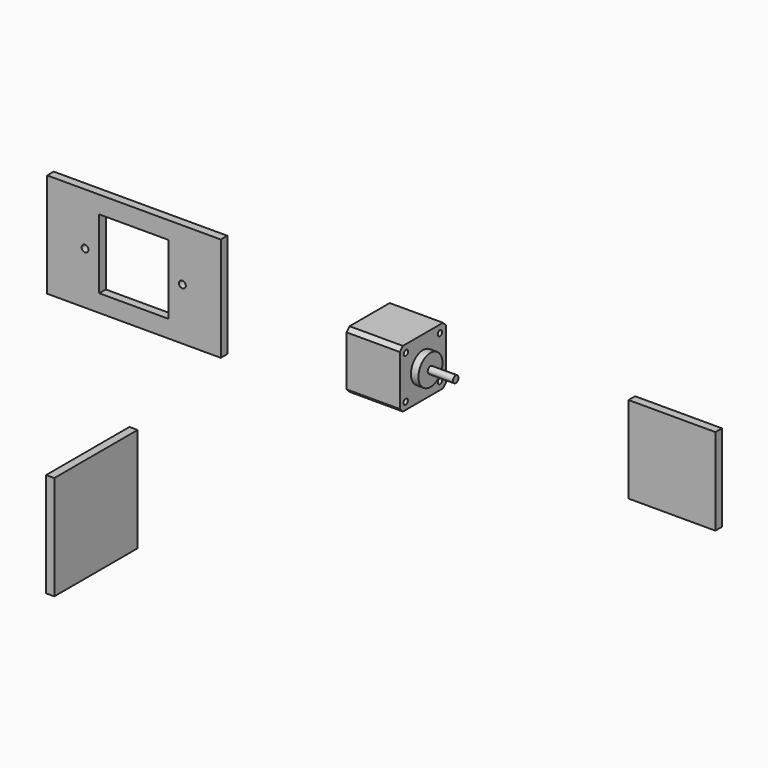
from build123d import *

# Parameters (mm, degrees)
F0_R      = 2
F0_R_2    = 11
F0_R_3    = 2.5
F1_DEPTH  = 39
F0_W      = 5
F0_H      = 10
F2_DEPTH  = 5
F3_DEPTH  = 44.5
F4_DEPTH  = 63
F5_W      = 76.2
F5_H      = 76.2
F6_DEPTH  = 6
F7_W      = 127
F7_H      = 76.2
F7_R      = 2.5
F7_W_2    = 50.8
F7_H_2    = 50.8
F8_DEPTH  = 6
F9_W      = 63.5
F9_H      = 63.5
F10_DEPTH = 6


with BuildPart() as f1:
    # F0 (on Right) → F1 (new body)
    with BuildSketch(Plane.YZ):
        with BuildLine():
            Line((18.35, 21.15), (9.95, 21.15))
            Line((9.95, 21.15), (9.95, 13.76))
            ThreePointArc((9.95, 13.76), (11.065923, 11.065923), (13.76, 9.95))
            Line((13.76, 9.95), (21.15, 9.95))
            Line((21.15, 9.95), (21.15, 18.35))
            Line((21.15, 18.35), (18.35, 21.15))
        make_face()
        with Locations((15.55, 15.55)):
            Circle(F0_R, mode=Mode.SUBTRACT)
        with BuildLine():
            Line((9.95, -13.76), (9.95, -21.15))
            Line((9.95, -21.15), (18.35, -21.15))
            Line((18.35, -21.15), (21.15, -18.35))
            Line((21.15, -18.35), (21.15, -9.95))
            Line((21.15, -9.95), (13.76, -9.95))
            ThreePointArc((13.76, -9.95), (11.065923, -11.065923), (9.95, -13.76))
        make_face()
        with Locations((15.575716, -15.329785)):
            Circle(F0_R, mode=Mode.SUBTRACT)
        with BuildLine():
            Line((-21.15, -18.35), (-18.35, -21.15))
            Line((-18.35, -21.15), (-9.95, -21.15))
            Line((-9.95, -21.15), (-9.95, -13.76))
            ThreePointArc((-9.95, -13.76), (-11.065923, -11.065923), (-13.76, -9.95))
            Line((-13.76, -9.95), (-21.15, -9.95))
            Line((-21.15, -9.95), (-21.15, -18.35))
        make_face()
        with Locations((-15.739674, -15.821651)):
            Circle(F0_R, mode=Mode.SUBTRACT)
        with BuildLine():
            Line((-21.15, 18.35), (-21.15, 9.95))
            Line((-21.15, 9.95), (-13.76, 9.95))
            ThreePointArc((-13.76, 9.95), (-11.065923, 11.065923), (-9.95, 13.76))
            Line((-9.95, 13.76), (-9.95, 21.15))
            Line((-9.95, 21.15), (-18.35, 21.15))
            Line((-18.35, 21.15), (-21.15, 18.35))
        make_face()
        with Locations((-15.55, 15.55)):
            Circle(F0_R, mode=Mode.SUBTRACT)
        with BuildLine():
            Line((-9.95, -13.76), (-9.95, -21.15))
            Line((-9.95, -21.15), (9.95, -21.15))
            Line((9.95, -21.15), (9.95, -13.76))
            ThreePointArc((9.95, -13.76), (11.065923, -11.065923), (13.76, -9.95))
            Line((13.76, -9.95), (21.15, -9.95))
            Line((21.15, -9.95), (21.15, -5))
            Line((21.15, -5), (21.15, 5))
            Line((21.15, 5), (21.15, 9.95))
            Line((21.15, 9.95), (13.76, 9.95))
            ThreePointArc((13.76, 9.95), (11.065923, 11.065923), (9.95, 13.76))
            Line((9.95, 13.76), (9.95, 21.15))
            Line((9.95, 21.15), (-9.95, 21.15))
            Line((-9.95, 21.15), (-9.95, 13.76))
            ThreePointArc((-9.95, 13.76), (-11.065923, 11.065923), (-13.76, 9.95))
            Line((-13.76, 9.95), (-21.15, 9.95))
            Line((-21.15, 9.95), (-21.15, -9.95))
            Line((-21.15, -9.95), (-13.76, -9.95))
            ThreePointArc((-13.76, -9.95), (-11.065923, -11.065923), (-9.95, -13.76))
        make_face()
        Circle(F0_R_2, mode=Mode.SUBTRACT)
        with BuildLine():
            Line((-21.15, 18.35), (-21.15, 9.95))
            Line((-21.15, 9.95), (-13.76, 9.95))
            ThreePointArc((-13.76, 9.95), (-11.065923, 11.065923), (-9.95, 13.76))
            Line((-9.95, 13.76), (-9.95, 21.15))
            Line((-9.95, 21.15), (-18.35, 21.15))
            Line((-18.35, 21.15), (-21.15, 18.35))
        make_face()
        with Locations((-15.55, 15.55)):
            Circle(F0_R, mode=Mode.SUBTRACT)
        with BuildLine():
            Line((18.35, 21.15), (9.95, 21.15))
            Line((9.95, 21.15), (9.95, 13.76))
            ThreePointArc((9.95, 13.76), (11.065923, 11.065923), (13.76, 9.95))
            Line((13.76, 9.95), (21.15, 9.95))
            Line((21.15, 9.95), (21.15, 18.35))
            Line((21.15, 18.35), (18.35, 21.15))
        make_face()
        with Locations((15.55, 15.55)):
            Circle(F0_R, mode=Mode.SUBTRACT)
        Circle(F0_R_2)
        Circle(F0_R_3, mode=Mode.SUBTRACT)
        Circle(F0_R_3)
    extrude(amount=F1_DEPTH)

    # F0 (on Right) → F2 (join)
    with BuildSketch(Plane.YZ):
        with Locations((23.65, 0)):
            Rectangle(F0_W, F0_H)
    extrude(amount=F2_DEPTH)

    # F0 (on Right) → F3 (join)
    with BuildSketch(Plane.YZ):
        Circle(F0_R_2)
        Circle(F0_R_3, mode=Mode.SUBTRACT)
    extrude(amount=F3_DEPTH)

    # F0 (on Right) → F4 (join)
    with BuildSketch(Plane.YZ):
        Circle(F0_R_3)
    extrude(amount=F4_DEPTH)


with BuildPart() as f6:
    # F5 (on Right) → F6 (new body)
    with BuildSketch(Plane.YZ):
        with Locations((-257.704135, 0)):
            Rectangle(F5_W, F5_H)
    extrude(amount=F6_DEPTH)


with BuildPart() as f8:
    # F7 (on Front) → F8 (new body)
    with BuildSketch(Plane.XZ):
        with Locations((-167.554611, 0)):
            Rectangle(F7_W, F7_H)
        with Locations((-203.352407, 0)):
            Circle(F7_R, mode=Mode.SUBTRACT)
        with Locations((-167.554611, 0)):
            Rectangle(F7_W_2, F7_H_2, mode=Mode.SUBTRACT)
        with Locations((-132.152407, 0)):
            Circle(F7_R, mode=Mode.SUBTRACT)
    extrude(amount=F8_DEPTH)


with BuildPart() as f10:
    # F9 (on Front) → F10 (new body)
    with BuildSketch(Plane.XZ):
        with Locations((225.933054, 0)):
            Rectangle(F9_W, F9_H)
    extrude(amount=F10_DEPTH)


solid = Compound([f1.part, f6.part, f8.part, f10.part])
